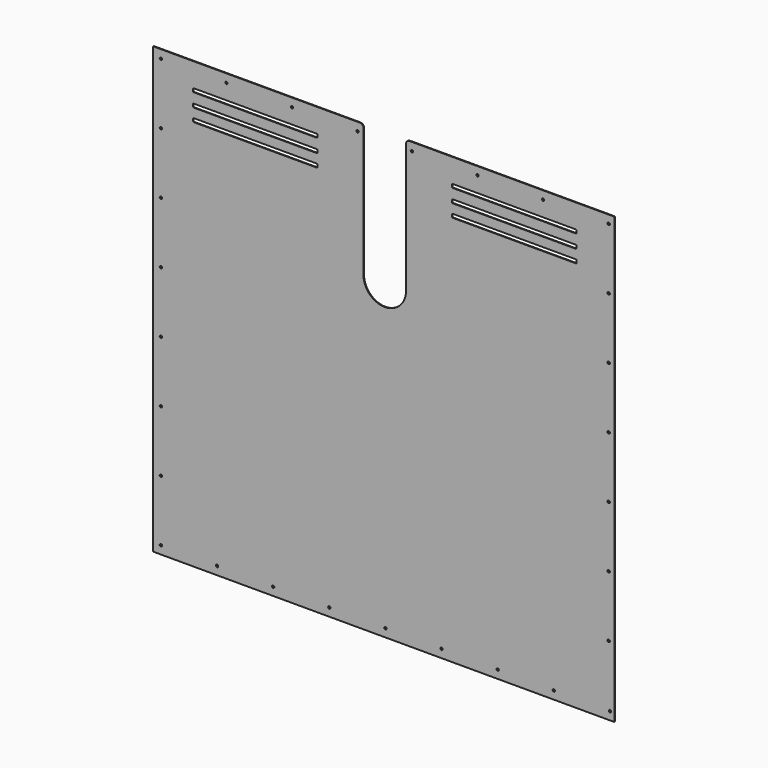
from build123d import *

# Parameters (mm, degrees)
F0_R     = 1.65
F1_DEPTH = 1


with BuildPart() as f1:
    # F0 (on Front) → F1 (new body)
    with BuildSketch(Plane.XZ):
        with BuildLine():
            ThreePointArc((120.203125, 125.020862), (90.203125, 95.020862), (60.203125, 125.020862))
            Line((60.203125, 125.020862), (60.203125, 307.955734))
            ThreePointArc((60.203125, 307.955734), (58.404687, 310.832687), (55.203125, 311.955734))
            Line((55.203125, 311.955734), (-235.296875, 311.955734))
            ThreePointArc((-235.296875, 311.955734), (-236.003982, 311.662841), (-236.296875, 310.955734))
            Line((-236.296875, 310.955734), (-236.296875, -313.044266))
            ThreePointArc((-236.296875, -313.044266), (-236.003982, -313.751373), (-235.296875, -314.044266))
            Line((-235.296875, -314.044266), (412.703125, -314.044266))
            ThreePointArc((412.703125, -314.044266), (413.410232, -313.751373), (413.703125, -313.044266))
            Line((413.703125, -313.044266), (413.703125, 310.955734))
            ThreePointArc((413.703125, 310.955734), (413.410232, 311.662841), (412.703125, 311.955734))
            Line((412.703125, 311.955734), (125.203125, 311.955734))
            ThreePointArc((125.203125, 311.955734), (122.001563, 310.832687), (120.203125, 307.955734))
            Line((120.203125, 307.955734), (120.203125, 125.020862))
        make_face()
        with Locations((-224.908055, -302.544266)):
            Circle(F0_R, mode=Mode.SUBTRACT)
        with Locations((-145.908055, -302.544266)):
            Circle(F0_R, mode=Mode.SUBTRACT)
        with Locations((-224.908055, -216.444266)):
            Circle(F0_R, mode=Mode.SUBTRACT)
        with Locations((-66.908055, -302.544266)):
            Circle(F0_R, mode=Mode.SUBTRACT)
        with Locations((12.091945, -302.544266)):
            Circle(F0_R, mode=Mode.SUBTRACT)
        with Locations((-224.908055, -130.344266)):
            Circle(F0_R, mode=Mode.SUBTRACT)
        with Locations((-224.908055, -44.244266)):
            Circle(F0_R, mode=Mode.SUBTRACT)
        with Locations((91.091945, -302.544266)):
            Circle(F0_R, mode=Mode.SUBTRACT)
        with Locations((170.091945, -302.544266)):
            Circle(F0_R, mode=Mode.SUBTRACT)
        with Locations((249.091945, -302.544266)):
            Circle(F0_R, mode=Mode.SUBTRACT)
        with Locations((328.091945, -302.544266)):
            Circle(F0_R, mode=Mode.SUBTRACT)
        with Locations((407.091945, -302.544266)):
            Circle(F0_R, mode=Mode.SUBTRACT)
        with Locations((405.262262, -216.076331)):
            Circle(F0_R, mode=Mode.SUBTRACT)
        with Locations((405.262262, -129.976331)):
            Circle(F0_R, mode=Mode.SUBTRACT)
        with Locations((405.262262, -43.876331)):
            Circle(F0_R, mode=Mode.SUBTRACT)
        with Locations((-224.908055, 41.855734)):
            Circle(F0_R, mode=Mode.SUBTRACT)
        with Locations((-224.908055, 127.955734)):
            Circle(F0_R, mode=Mode.SUBTRACT)
        with Locations((-224.908055, 214.055734)):
            Circle(F0_R, mode=Mode.SUBTRACT)
        with Locations((-224.908055, 300.155734)):
            Circle(F0_R, mode=Mode.SUBTRACT)
        with BuildLine():
            ThreePointArc((-179.546639, 240.567033), (-179.253746, 241.27414), (-178.546639, 241.567033))
            Line((-178.546639, 241.567033), (-5.546639, 241.567033))
            ThreePointArc((-5.546639, 241.567033), (-4.839533, 241.27414), (-4.546639, 240.567033))
            Line((-4.546639, 240.567033), (-4.546639, 237.567033))
            ThreePointArc((-4.546639, 237.567033), (-4.839533, 236.859927), (-5.546639, 236.567033))
            Line((-5.546639, 236.567033), (-178.546639, 236.567033))
            ThreePointArc((-178.546639, 236.567033), (-179.253746, 236.859927), (-179.546639, 237.567033))
            Line((-179.546639, 237.567033), (-179.546639, 240.567033))
        make_face(mode=Mode.SUBTRACT)
        with BuildLine():
            ThreePointArc((-179.546639, 258.567057), (-179.253745, 259.274164), (-178.546639, 259.567057))
            Line((-178.546639, 259.567057), (-5.546639, 259.567057))
            ThreePointArc((-5.546639, 259.567057), (-4.839532, 259.274164), (-4.546639, 258.567057))
            Line((-4.546639, 258.567057), (-4.546639, 255.567057))
            ThreePointArc((-4.546639, 255.567057), (-4.839532, 254.85995), (-5.546639, 254.567057))
            Line((-5.546639, 254.567057), (-178.546639, 254.567057))
            ThreePointArc((-178.546639, 254.567057), (-179.253745, 254.85995), (-179.546639, 255.567057))
            Line((-179.546639, 255.567057), (-179.546639, 258.567057))
        make_face(mode=Mode.SUBTRACT)
        with Locations((-132.608055, 300.155734)):
            Circle(F0_R, mode=Mode.SUBTRACT)
        with BuildLine():
            ThreePointArc((-179.546639, 277.571253), (-179.253745, 278.27836), (-178.546639, 278.571253))
            Line((-178.546639, 278.571253), (-5.546639, 278.571253))
            ThreePointArc((-5.546639, 278.571253), (-4.839532, 278.27836), (-4.546639, 277.571253))
            Line((-4.546639, 277.571253), (-4.546639, 274.571253))
            ThreePointArc((-4.546639, 274.571253), (-4.839532, 273.864146), (-5.546639, 273.571253))
            Line((-5.546639, 273.571253), (-178.546639, 273.571253))
            ThreePointArc((-178.546639, 273.571253), (-179.253745, 273.864146), (-179.546639, 274.571253))
            Line((-179.546639, 274.571253), (-179.546639, 277.571253))
        make_face(mode=Mode.SUBTRACT)
        with Locations((-40.308055, 300.155734)):
            Circle(F0_R, mode=Mode.SUBTRACT)
        with Locations((51.991945, 300.155734)):
            Circle(F0_R, mode=Mode.SUBTRACT)
        with Locations((405.262262, 42.223669)):
            Circle(F0_R, mode=Mode.SUBTRACT)
        with Locations((405.262262, 128.323669)):
            Circle(F0_R, mode=Mode.SUBTRACT)
        with Locations((128.362262, 300.523669)):
            Circle(F0_R, mode=Mode.SUBTRACT)
        with Locations((220.662262, 300.523669)):
            Circle(F0_R, mode=Mode.SUBTRACT)
        with Locations((405.262262, 214.423669)):
            Circle(F0_R, mode=Mode.SUBTRACT)
        with BuildLine():
            Line((184.952889, 237.567033), (184.952889, 240.567033))
            ThreePointArc((184.952889, 240.567033), (185.245783, 241.27414), (185.952889, 241.567033))
            Line((185.952889, 241.567033), (358.952889, 241.567033))
            ThreePointArc((358.952889, 241.567033), (359.659996, 241.27414), (359.952889, 240.567033))
            Line((359.952889, 240.567033), (359.952889, 237.567033))
            ThreePointArc((359.952889, 237.567033), (359.659996, 236.859927), (358.952889, 236.567033))
            Line((358.952889, 236.567033), (185.952889, 236.567033))
            ThreePointArc((185.952889, 236.567033), (185.245783, 236.859927), (184.952889, 237.567033))
        make_face(mode=Mode.SUBTRACT)
        with BuildLine():
            Line((184.952889, 255.567057), (184.952889, 258.567057))
            ThreePointArc((184.952889, 258.567057), (185.245782, 259.274164), (185.952889, 259.567057))
            Line((185.952889, 259.567057), (358.952889, 259.567057))
            ThreePointArc((358.952889, 259.567057), (359.659995, 259.274164), (359.952889, 258.567057))
            Line((359.952889, 258.567057), (359.952889, 255.567057))
            ThreePointArc((359.952889, 255.567057), (359.659995, 254.85995), (358.952889, 254.567057))
            Line((358.952889, 254.567057), (185.952889, 254.567057))
            ThreePointArc((185.952889, 254.567057), (185.245782, 254.85995), (184.952889, 255.567057))
        make_face(mode=Mode.SUBTRACT)
        with BuildLine():
            Line((184.952889, 274.571253), (184.952889, 277.571253))
            ThreePointArc((184.952889, 277.571253), (185.245782, 278.27836), (185.952889, 278.571253))
            Line((185.952889, 278.571253), (358.952889, 278.571253))
            ThreePointArc((358.952889, 278.571253), (359.659995, 278.27836), (359.952889, 277.571253))
            Line((359.952889, 277.571253), (359.952889, 274.571253))
            ThreePointArc((359.952889, 274.571253), (359.659995, 273.864146), (358.952889, 273.571253))
            Line((358.952889, 273.571253), (185.952889, 273.571253))
            ThreePointArc((185.952889, 273.571253), (185.245782, 273.864146), (184.952889, 274.571253))
        make_face(mode=Mode.SUBTRACT)
        with Locations((312.962262, 300.523669)):
            Circle(F0_R, mode=Mode.SUBTRACT)
        with Locations((405.262262, 300.523669)):
            Circle(F0_R, mode=Mode.SUBTRACT)
    extrude(amount=F1_DEPTH)


solid = f1.part
